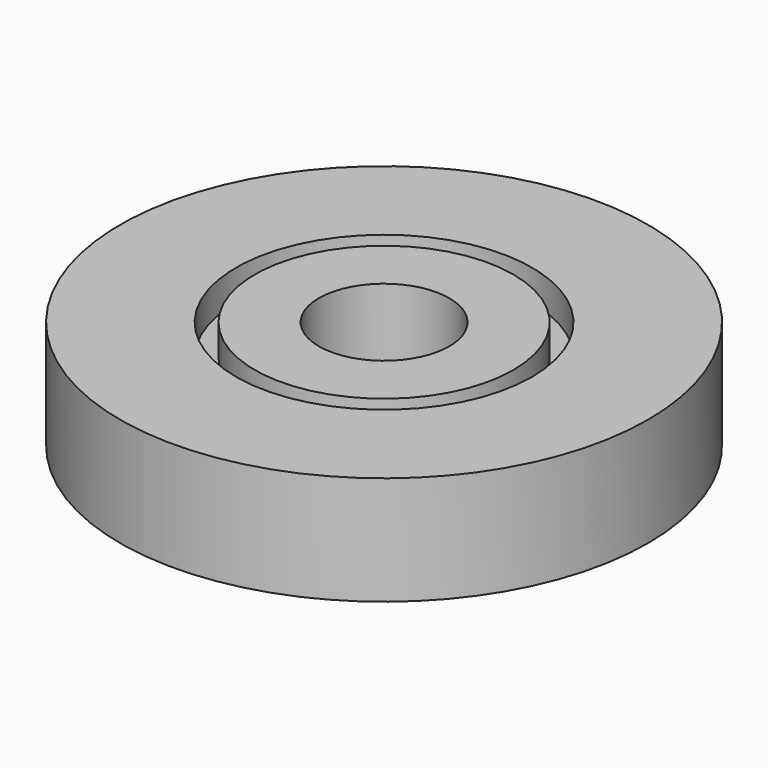
from build123d import *

# Parameters (mm, degrees)
F3_D = 8.4


with BuildPart() as f1:
    # F0 (on Front) → F1 (revolve)
    with BuildSketch(Plane.XZ):
        Polygon((0, 7), (0, 0), (17, 0), (17, 7), (9.53, 7), (9.53, 5), (8.33, 5), (8.33, 7), align=None)
    revolve(axis=Axis((0, 0, 4.9481496681), (0, 0, -1)))

    # F3 (through all)
    with Locations(Plane.XY.offset(7)):
        with Locations((0, 0)):
            Hole(F3_D / 2)


solid = f1.part
